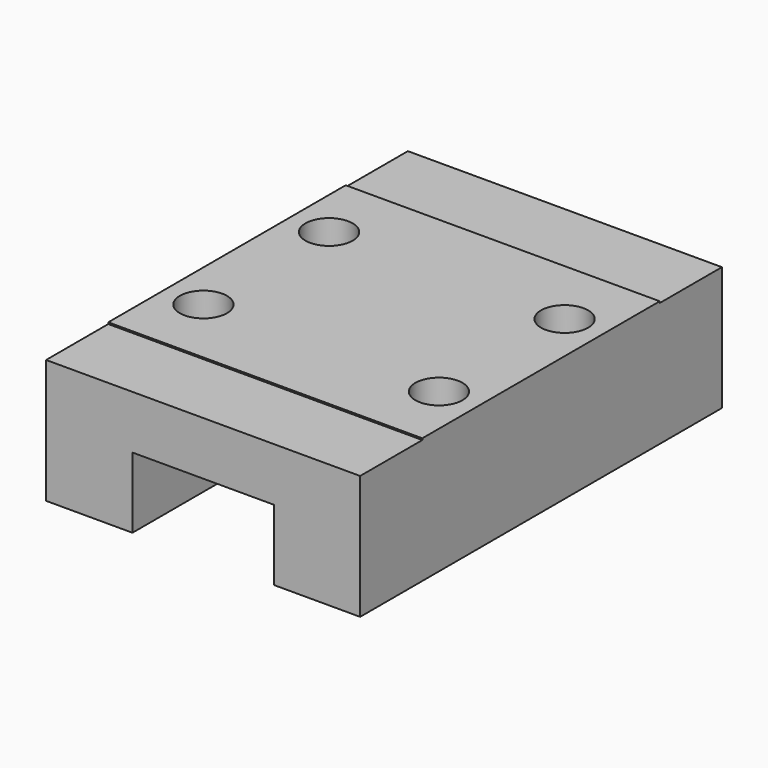
from build123d import *

# Parameters (mm, degrees)
SKETCH065_W     = 20
SKETCH065_H     = 28.8
PAD023_DEPTH    = 8
SKETCH070_W     = 9
SKETCH070_H     = 4.5
POCKET042_DEPTH = 28.8
SKETCH069_R     = 1.5
POCKET043_DEPTH = 4
SKETCH066_W     = 20
SKETCH066_H     = 4.95
POCKET040_DEPTH = 0.1


with BuildPart() as part:
    # Sketch065 → Pad023 (new body)
    with BuildSketch(Plane.XY):
        with Locations((-4.5, 14.4)):
            Rectangle(SKETCH065_W, SKETCH065_H)
    extrude(amount=PAD023_DEPTH)

    # Sketch070 (on Face1 of Pad023) → Pocket042 (cut)
    with BuildSketch(Plane.XZ):
        with Locations((-4.5, 2.25)):
            Rectangle(SKETCH070_W, SKETCH070_H)
    extrude(amount=-POCKET042_DEPTH, mode=Mode.SUBTRACT)

    # Sketch069 (on Face8 of Pocket042) → Pocket043 (cut)
    with BuildSketch(Plane.XY.offset(8)):
        with Locations((-12, 19.4)):
            Circle(SKETCH069_R)
        with Locations((3, 9.4)):
            Circle(SKETCH069_R)
        with Locations((-12, 9.4)):
            Circle(SKETCH069_R)
        with Locations((3, 19.4)):
            Circle(SKETCH069_R)
    extrude(amount=-POCKET043_DEPTH, mode=Mode.SUBTRACT)

    # Sketch066 (on Face8 of Pocket043) → Pocket040 (cut)
    with BuildSketch(Plane.XY.offset(8)):
        with Locations((-4.5, 26.325)):
            Rectangle(SKETCH066_W, SKETCH066_H)
        with Locations((-4.5, 2.475)):
            Rectangle(SKETCH066_W, SKETCH066_H)
    extrude(amount=-POCKET040_DEPTH, mode=Mode.SUBTRACT)


with BuildPart() as part_1:
    # Body019 placement: moved
    add(part.part.moved(Location((0, 100, 2))))


solid = part_1.part
